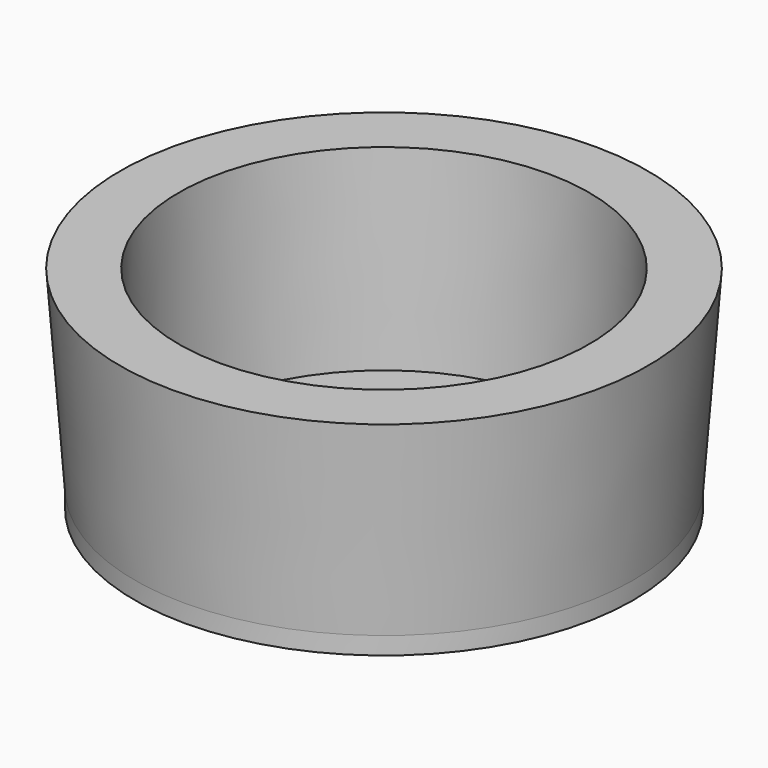
from build123d import *


with BuildPart() as f1:
    # F0 (on Right) → F1 (revolve)
    with BuildSketch(Plane.YZ):
        Polygon((-35, 36), (-45, 36), (-42.5, 3), (-34, 3), align=None)
        Polygon((-34, 3), (-42.5, 3), (-42.5, 0), (0, 0), (0, 3), align=None)
    revolve(axis=Axis((0, 0, 1.5), (0, 0, -1)))


solid = f1.part
